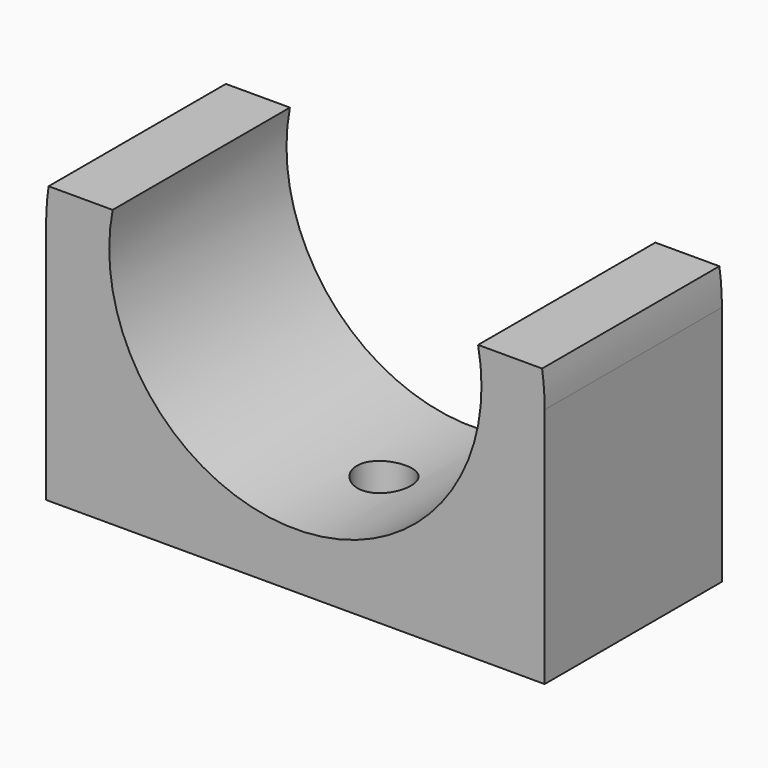
from build123d import *

# Parameters (mm, degrees)
F1_DEPTH = 12.7
F2_R     = 1.25
F2_R_2   = 1.55
F3_DEPTH = 6


with BuildPart() as f1:
    # F0 (on Front) → F1 (new body)
    with BuildSketch(Plane.XZ):
        with BuildLine():
            ThreePointArc((10.472688, 2.032), (0, -10.668), (-10.472688, 2.032))
            Line((-10.472688, 2.032), (-14.142264, 2.032))
            ThreePointArc((-14.142264, 2.032), (-14.251145, 1.018592), (-14.2875, 0))
            Line((-14.2875, 0), (-14.2875, -13.843))
            Line((-14.2875, -13.843), (14.2875, -13.843))
            Line((14.2875, -13.843), (14.2875, 0))
            ThreePointArc((14.2875, 0), (14.251145, 1.018592), (14.142264, 2.032))
            Line((14.142264, 2.032), (10.472688, 2.032))
        make_face()
    extrude(amount=F1_DEPTH)

    # F2 (on face) → F3 (cut)
    with BuildSketch(Plane(origin=(0, 0, -13.843), x_dir=(1, 0, 0), z_dir=(0, 0, -1))):
        with Locations((-11, 6.35)):
            Circle(F2_R)
        with Locations((11, 6.35)):
            Circle(F2_R)
        with Locations((0, 6.35)):
            Circle(F2_R_2)
    extrude(amount=-F3_DEPTH, mode=Mode.SUBTRACT)


solid = f1.part
